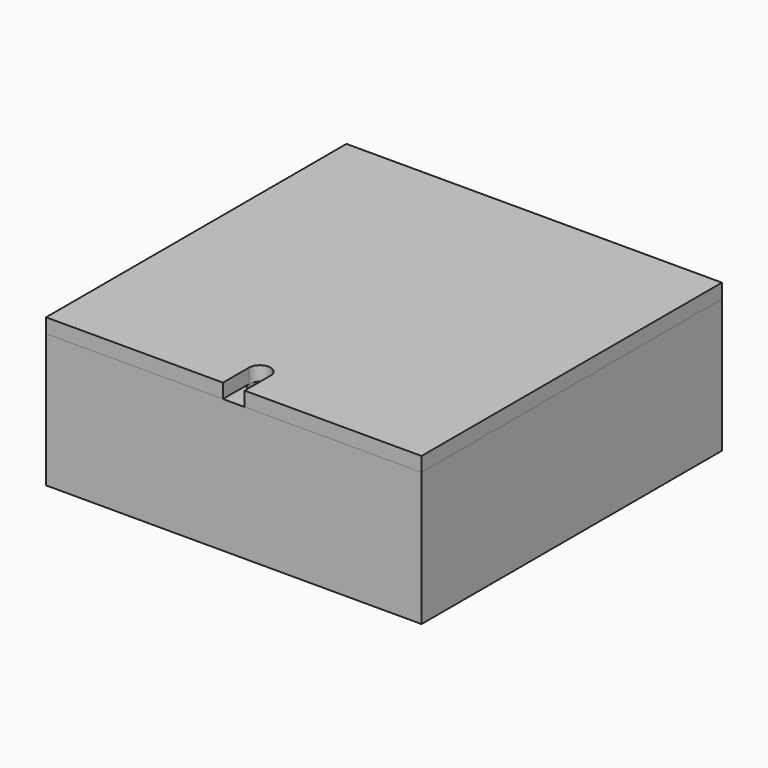
from build123d import *

# Parameters (mm, degrees)
SKETCH_W               = 104
SKETCH_H               = 104
PAD_DEPTH              = 22
SKETCH002_W            = 100.2
SKETCH002_H            = 100.2
POCKET_DEPTH           = 20
SKETCH003_W            = 59
SKETCH003_H            = 59
POCKET001_DEPTH        = 22.001
POCKET001_FACE5_W      = 104
POCKET001_FACE5_H      = 104
POCKET001_FACE5_W_2    = 59
POCKET001_FACE5_H_2    = 59
PAD001_DEPTH           = 4.5
SKETCH004_W            = 104
SKETCH004_H            = 104
SKETCH004_W_2          = 61.5
SKETCH004_H_2          = 61.5
PAD002_DEPTH           = 1.5
PAD002_FACE18_W        = 104
PAD002_FACE18_H        = 104
PAD002_FACE18_W_2      = 61.5
PAD002_FACE18_H_2      = 61.5
PAD003_DEPTH           = 8
POCKET002_DEPTH        = 7
POCKET005_DEPTH        = 6
POLARPATTERN_COUNT     = 4
POLARPATTERN_FACE4_W   = 104
POLARPATTERN_FACE4_H   = 104
POLARPATTERN_FACE4_W_2 = 100.2
POLARPATTERN_FACE4_H_2 = 100.2
PAD008_DEPTH           = 1
SKETCH007_W            = 104
SKETCH007_H            = 104
PAD004_DEPTH           = 4
SKETCH008_W            = 61.2
SKETCH008_H            = 61.2
SKETCH008_W_2          = 53.2
SKETCH008_H_2          = 53.2
PAD005_DEPTH           = 4
POCKET003_DEPTH        = 5
SKETCH010_W            = 6
SKETCH010_H            = 8.190798
POCKET004_DEPTH        = 2.5
PAD007_DEPTH           = 5.5
POLARPATTERN001_COUNT  = 4
CHAMFER_SIZE           = 1


with BuildPart() as box:
    # Sketch → Pad (new body)
    with BuildSketch(Plane.XY):
        Rectangle(SKETCH_W, SKETCH_H)
    extrude(amount=PAD_DEPTH)

    # Sketch002 → Pocket (cut)
    with BuildSketch(Plane.XY):
        Rectangle(SKETCH002_W, SKETCH002_H)
    extrude(amount=POCKET_DEPTH, mode=Mode.SUBTRACT)

    # Sketch003 → Pocket001 (cut, through all)
    with BuildSketch(Plane.XY):
        Rectangle(SKETCH003_W, SKETCH003_H)
    extrude(amount=POCKET001_DEPTH, mode=Mode.SUBTRACT)

    # Pocket001 Face5 → Pad001 (add)
    with BuildSketch(Plane(origin=(0, 0, 22), x_dir=(0, 1, 0), z_dir=(0, 0, 1))):
        Rectangle(POCKET001_FACE5_W, POCKET001_FACE5_H)
        Rectangle(POCKET001_FACE5_W_2, POCKET001_FACE5_H_2, mode=Mode.SUBTRACT)
    extrude(amount=PAD001_DEPTH)

    # Sketch004 (on Face13 of Pad001) → Pad002 (join)
    with BuildSketch(Plane.XY.offset(26.5)):
        Rectangle(SKETCH004_W, SKETCH004_H)
        Rectangle(SKETCH004_W_2, SKETCH004_H_2, mode=Mode.SUBTRACT)
    extrude(amount=PAD002_DEPTH)

    # Pad002 Face18 → Pad003 (add)
    with BuildSketch(Plane(origin=(0, 0, 28), x_dir=(0, 1, 0), z_dir=(0, 0, 1))):
        Rectangle(PAD002_FACE18_W, PAD002_FACE18_H)
        Rectangle(PAD002_FACE18_W_2, PAD002_FACE18_H_2, mode=Mode.SUBTRACT)
    extrude(amount=PAD003_DEPTH)

    # Sketch005 (on Face26 of Pad003) → Pocket002 (cut)
    with BuildSketch(Plane.XY.offset(36)):
        with BuildLine():
            Line((-3, -30.75), (3, -30.75))
            Line((3, -30.75), (3, -42.75))
            ThreePointArc((-3, -42.75), (0, -45.75), (3, -42.75))
            Line((-3, -42.75), (-3, -30.75))
        make_face()
    extrude(amount=-POCKET002_DEPTH, mode=Mode.SUBTRACT)

    # Sketch012 → Pocket005 (cut)
    with BuildSketch(Plane.XY.offset(36)):
        Polygon((-42.55, 35.58327), (-37.45, 35.58327), (-34.9, 40), (-37.45, 44.41673), (-42.55, 44.41673), (-45.1, 40), align=None)
    pocket005 = extrude(amount=-POCKET005_DEPTH, mode=Mode.SUBTRACT)

    # PolarPattern: Pocket005 ×4 about axis
    polarpattern_axis = Axis((0, 0, 36), (0, 0, 1))
    for i in range(1, POLARPATTERN_COUNT):
        add(pocket005.rotate(polarpattern_axis, i * 360 / POLARPATTERN_COUNT), mode=Mode.SUBTRACT)

    # PolarPattern Face4 → Pad008 (add)
    with BuildSketch(Plane(origin=(0, 0, 0), x_dir=(0, -1, 0), z_dir=(0, 0, -1))):
        Rectangle(POLARPATTERN_FACE4_W, POLARPATTERN_FACE4_H)
        Rectangle(POLARPATTERN_FACE4_W_2, POLARPATTERN_FACE4_H_2, mode=Mode.SUBTRACT)
    extrude(amount=PAD008_DEPTH)


with BuildPart() as cover:
    # Sketch007 → Pad004 (new body)
    with BuildSketch(Plane.XY):
        Rectangle(SKETCH007_W, SKETCH007_H)
    extrude(amount=PAD004_DEPTH)

    # Sketch008 → Pad005 (join)
    with BuildSketch(Plane.XY):
        Rectangle(SKETCH008_W, SKETCH008_H)
        Rectangle(SKETCH008_W_2, SKETCH008_H_2, mode=Mode.SUBTRACT)
    extrude(amount=-PAD005_DEPTH)

    # Sketch009 (on Face5 of Pad005) → Pocket003 (cut)
    with BuildSketch(Plane.XY.offset(4)):
        with BuildLine():
            Line((-3, -43), (-3, -52))
            Line((-3, -52), (3, -52))
            Line((3, -52), (3, -43))
            ThreePointArc((3, -43), (0, -40), (-3, -43))
        make_face()
    extrude(amount=-POCKET003_DEPTH, mode=Mode.SUBTRACT)

    # Sketch010 (on Face15 of Pocket003) → Pocket004 (cut)
    with BuildSketch(Plane(origin=(0, 0, -4), x_dir=(1, 0, 0), z_dir=(0, 0, -1))):
        with Locations((0, 28.018615)):
            Rectangle(SKETCH010_W, SKETCH010_H)
    extrude(amount=-POCKET004_DEPTH, mode=Mode.SUBTRACT)

    # Sketch013 → Pad007 (join)
    with BuildSketch(Plane.XY):
        Polygon((-42.5, 35.669873), (-37.5, 35.669873), (-35, 40), (-37.5, 44.330127), (-42.5, 44.330127), (-45, 40), align=None)
    pad007 = extrude(amount=-PAD007_DEPTH)

    # PolarPattern001: Pad007 ×4 about axis
    polarpattern001_axis = Axis((0, 0, 0), (0, 0, 1))
    for i in range(1, POLARPATTERN001_COUNT):
        add(pad007.rotate(polarpattern001_axis, i * 360 / POLARPATTERN001_COUNT))

    # Chamfer
    chamfer_edges = [cover.edges().sort_by_distance(p)[0] for p in [
        (35.669873, 40, -5.5),
        (37.834936, 36.25, -5.5),
        (42.165064, 36.25, -5.5),
        (44.330127, 40, -5.5),
        (42.165064, 43.75, -5.5),
        (37.834936, 43.75, -5.5),
        (-40, 35.669873, -5.5),
        (-36.25, 37.834936, -5.5),
        (-36.25, 42.165064, -5.5),
        (-40, 44.330127, -5.5),
        (-43.75, 42.165064, -5.5),
        (-43.75, 37.834936, -5.5),
        (-35.669873, -40, -5.5),
        (-37.834936, -36.25, -5.5),
        (-42.165064, -36.25, -5.5),
        (-44.330127, -40, -5.5),
        (-42.165064, -43.75, -5.5),
        (-37.834936, -43.75, -5.5),
        (40, -35.669873, -5.5),
        (36.25, -37.834936, -5.5),
        (36.25, -42.165064, -5.5),
        (40, -44.330127, -5.5),
        (43.75, -42.165064, -5.5),
        (43.75, -37.834936, -5.5),
    ]]
    chamfer(chamfer_edges, length=CHAMFER_SIZE)


with BuildPart() as cover_1:
    # Body001 placement: moved
    add(cover.part.moved(Location((0, 0, 36))))


solid = Compound([box.part, cover_1.part])
